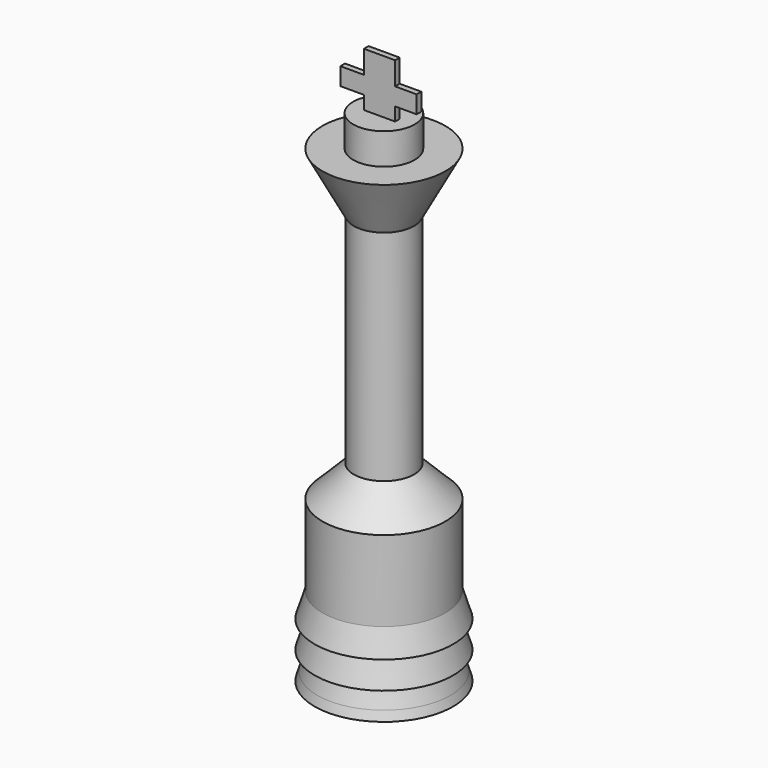
from build123d import *

# Parameters (mm, degrees)
F2_DEPTH = 12.7


with BuildPart() as f1:
    # F0 (on Front) → F1 (revolve)
    with BuildSketch(Plane.XZ):
        Polygon((-67.62865, 190.277228), (0, 190.277228), (0, 259.052152), (-33.814325, 259.052152), (-67.62865, 259.052152), align=None)
        Polygon((-152.4, -841.346307), (0, -841.346307), (0, 190.277228), (-67.62865, 190.277228), (-135.2573, 190.277228), (-66.482398, 61.897415), (-66.482398, -419.526917), (-135.2573, -488.301819), (-135.2573, -665.604104), (-152.4, -720.624042), (-135.2573, -725.965236), (-152.4, -780.985175), (-135.2573, -786.326368), (-146.319587, -821.831064), align=None)
    revolve(axis=Axis((0, 0, -98.577386), (0, 0, -1)))

    # F0 (on Front) → F2 (join)
    with BuildSketch(Plane.XZ):
        Polygon((-33.814325, 259.052152), (0, 259.052152), (0, 377.853693), (-33.814325, 377.853693), (-33.814325, 327.24792), (-85.767365, 327.24792), (-85.767365, 288.486038), (-33.814325, 288.486038), align=None)
        Polygon((0, 377.853693), (0, 259.052152), (34.825173, 259.052152), (34.825173, 288.486038), (82.20081, 288.486038), (82.20081, 327.24792), (34.825173, 327.24792), (34.825173, 377.853693), align=None)
    extrude(amount=F2_DEPTH)


solid = f1.part
